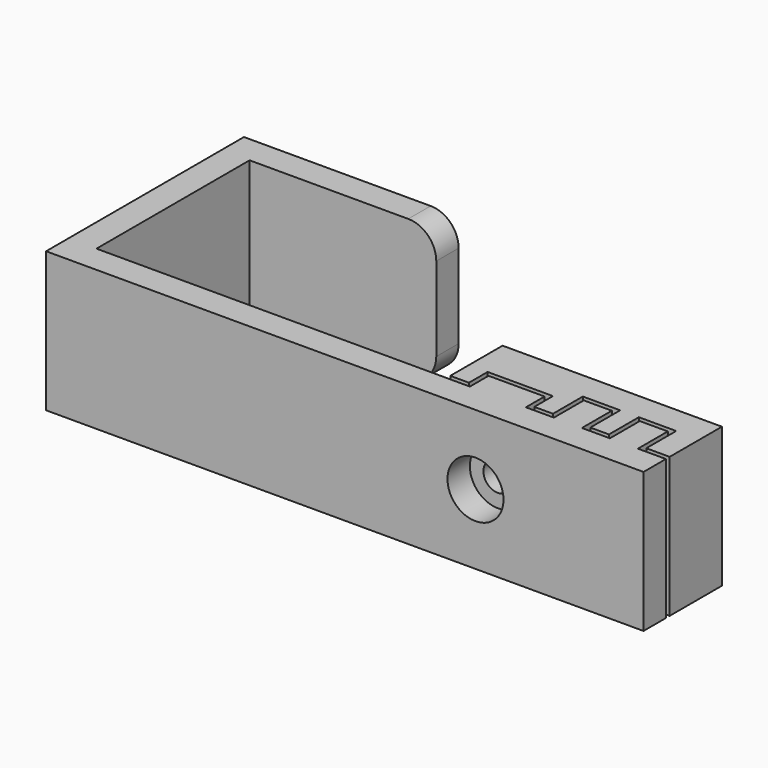
from build123d import *

# Parameters (mm, degrees)
PAD_DEPTH       = 15
SKETCH001_R     = 1.55
POCKET_DEPTH    = 5.501
SKETCH002_R     = 3
POCKET001_DEPTH = 3
FILLET_R        = 3
PAD001_DEPTH    = 15
SKETCH004_R     = 1.55
POCKET002_DEPTH = 5
POCKET003_DEPTH = 2.5


with BuildPart() as obj1:
    # Sketch → Pad (new body)
    with BuildSketch(Plane.XY):
        Polygon((0, 0), (-64, 0), (-64, 26.5), (-41, 26.5), (-41, 23.5), (-61, 23.5), (-61, 3), (-21, 3), (-21, 5.5), (-15, 5.5), (-15, 3), (-12, 3), (-12, 7), (-9, 7), (-9, 3), (-6, 3), (-6, 7), (-3, 7), (-3, 3), (0, 3), align=None)
    extrude(amount=PAD_DEPTH)

    # Sketch001 (on Face9 of Pad) → Pocket (cut, through all)
    with BuildSketch(Plane(origin=(0, 5.5, 0), x_dir=(-1, 0, 0), z_dir=(0, 1, 0))):
        with Locations((18, 7.5)):
            Circle(SKETCH001_R)
    extrude(amount=-POCKET_DEPTH, mode=Mode.SUBTRACT)

    # Sketch002 (on Face1 of Pocket) → Pocket001 (cut)
    with BuildSketch(Plane.XZ):
        with Locations((-18, 7.5)):
            Circle(SKETCH002_R)
    extrude(amount=-POCKET001_DEPTH, mode=Mode.SUBTRACT)

    # Fillet
    fillet_edges = [obj1.edges().sort_by_distance(p)[0] for p in [
        (-41, 25, 0),
        (-41, 25, 15),
    ]]
    fillet(fillet_edges, radius=FILLET_R)


with BuildPart() as obj2:
    # Sketch003 → Pad001 (new body)
    with BuildSketch(Plane.XY):
        Polygon((0, 3.5), (-2.5, 3.5), (-2.5, 7.5), (-6.5, 7.5), (-6.5, 3.5), (-8.5, 3.5), (-8.5, 7.5), (-12.5, 7.5), (-12.5, 3.5), (-14.5, 3.5), (-14.5, 6), (-21.5, 6), (-21.5, 3.5), (-23.5, 3.5), (-23.5, 10.5), (0, 10.5), align=None)
    extrude(amount=PAD001_DEPTH)

    # Sketch004 (on Face15 of Pad001) → Pocket002 (cut)
    with BuildSketch(Plane(origin=(0, 10.5, 0), x_dir=(-1, 0, 0), z_dir=(0, 1, 0))):
        with Locations((18, 7.5)):
            Circle(SKETCH004_R)
    extrude(amount=-POCKET002_DEPTH, mode=Mode.SUBTRACT)

    # Sketch005 (on Face6 of Pocket002) → Pocket003 (cut)
    with BuildSketch(Plane(origin=(0, 10.5, 0), x_dir=(-1, 0, 0), z_dir=(0, 1, 0))):
        Polygon((20.75, 5.912287), (20.75, 9.087713), (18, 10.675426), (15.25, 9.087713), (15.25, 5.912287), (18, 4.324574), align=None)
    extrude(amount=-POCKET003_DEPTH, mode=Mode.SUBTRACT)


solid = Compound([obj1.part, obj2.part])
